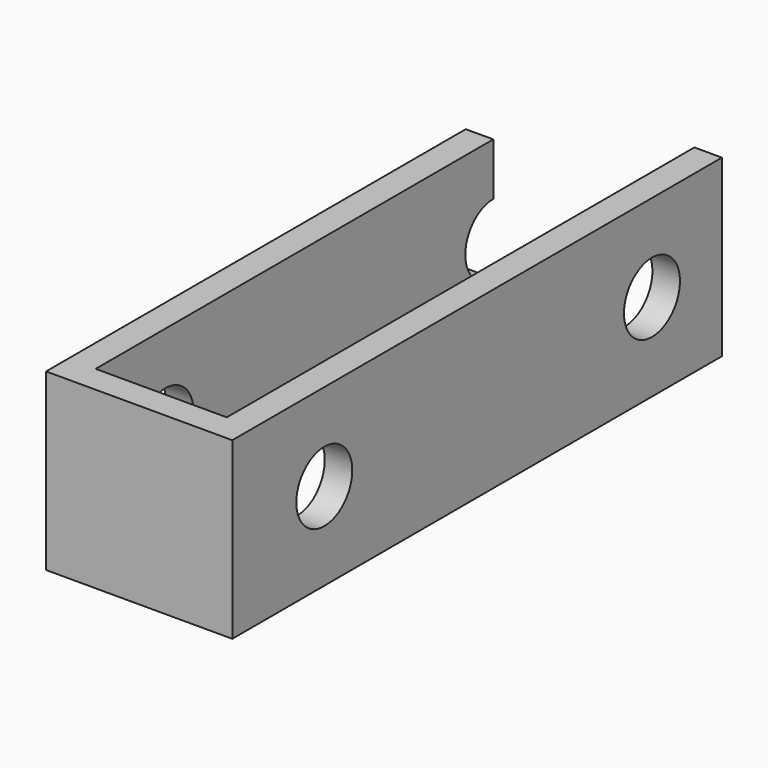
from build123d import *

# Parameters (mm, degrees)
F1_DEPTH = 25.4
F2_R     = 5.08
F3_DEPTH = 76.2


with BuildPart() as f1:
    # F0 (on Top) → F1 (new body)
    with BuildSketch(Plane.XY):
        Polygon((0, 76.2), (0, 0), (27.05, 0), (27.05, 88.9), (23.05, 88.9), (23.05, 4), (4, 4), (4, 76.2), align=None)
    extrude(amount=F1_DEPTH)

    # F2 (on face) → F3 (cut, symmetric)
    with BuildSketch(Plane(origin=(23.05, 0, 0), x_dir=(0, -1, 0), z_dir=(-1, 0, 0))):
        with Locations((-76.2, 12.7)):
            Circle(F2_R)
        with Locations((-16.7, 12.7)):
            Circle(F2_R)
    extrude(amount=F3_DEPTH, both=True, mode=Mode.SUBTRACT)


solid = f1.part
